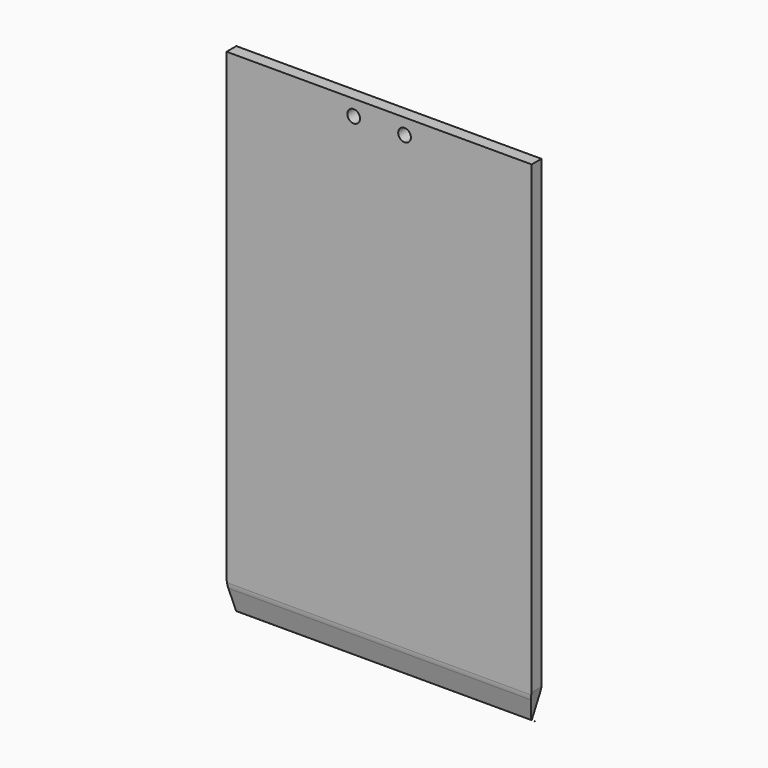
from build123d import *

# Parameters (mm, degrees)
F1_DEPTH = 150
F3_DEPTH = 25


with BuildPart() as f1:
    # F0 (on Right) → F1 (new body, symmetric)
    with BuildSketch(Plane.YZ):
        with BuildLine():
            Line((6, -215.287568), (6, 242.5))
            Line((6, 242.5), (-6, 242.5))
            Line((-6, 242.5), (-6, -216.946892))
            ThreePointArc((-6, -216.946892), (-5.859226, -219.315681), (-5.438884, -221.651124))
            Line((-5.438884, -221.651124), (-0.485972, -242.117606))
            ThreePointArc((-0.485972, -242.117606), (-0.05922, -241.503519), (0.5, -242))
            ThreePointArc((0.5, -242), (0.496969, -242.054975), (0.487911, -242.109284))
            Line((0.487911, -242.109284), (5.516432, -219.658939))
            ThreePointArc((5.516432, -219.658939), (5.87874, -217.486586), (6, -215.287568))
        make_face()
        with BuildLine():
            ThreePointArc((0, -242.5), (0.312536, -242.390283), (0.487911, -242.109284))
            ThreePointArc((0.487911, -242.109284), (0.496969, -242.054975), (0.5, -242))
            ThreePointArc((0.5, -242), (-0.05922, -241.503519), (-0.485972, -242.117606))
            ThreePointArc((-0.485972, -242.117606), (-0.30919, -242.392939), (0, -242.5))
        make_face()
    extrude(amount=F1_DEPTH, both=True)

    # F2 (on face) → F3 (cut)
    with BuildSketch(Plane(origin=(0, 6, 0), x_dir=(-1, 0, 0), z_dir=(0, 1, 0))):
        with BuildLine():
            Line((18.75, 227.25), (31.25, 227.25))
            ThreePointArc((31.25, 227.25), (25, 233.5), (18.75, 227.25))
        make_face()
        with BuildLine():
            ThreePointArc((-31.25, 227.25), (-25, 221), (-18.75, 227.25))
            Line((-18.75, 227.25), (-31.25, 227.25))
        make_face()
        with BuildLine():
            Line((-31.25, 227.25), (-18.75, 227.25))
            ThreePointArc((-18.75, 227.25), (-25, 233.5), (-31.25, 227.25))
        make_face()
        with BuildLine():
            ThreePointArc((18.75, 227.25), (25, 221), (31.25, 227.25))
            Line((31.25, 227.25), (18.75, 227.25))
        make_face()
        Polygon((-145, -242.499982), (-150, -214.500172), (-150.103354, -242.499982), align=None)
        Polygon((150.103354, -242.499982), (150, -214.500172), (145, -242.499982), align=None)
    extrude(amount=-F3_DEPTH, mode=Mode.SUBTRACT)


solid = f1.part
